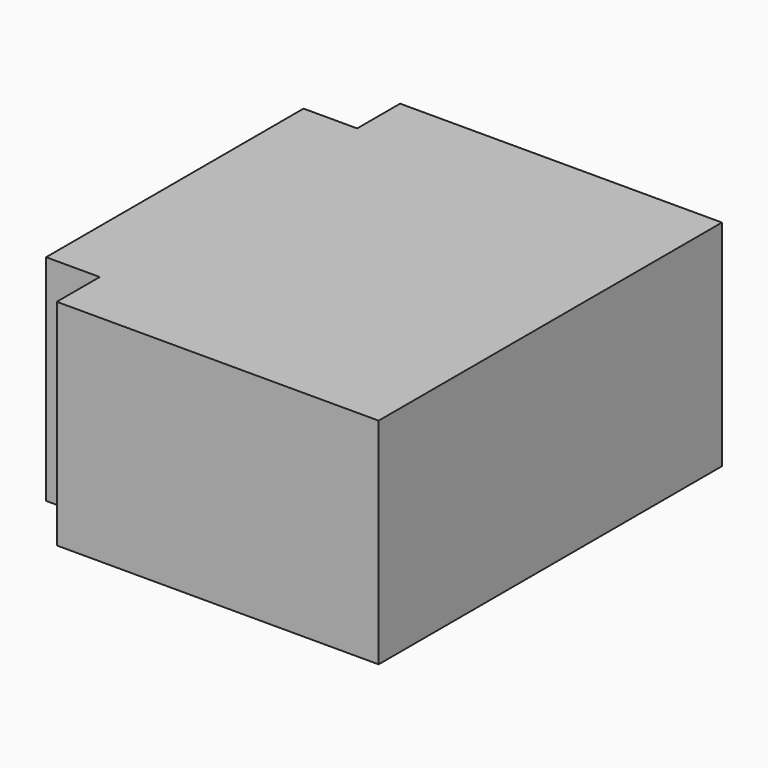
from build123d import *

# Parameters (mm, degrees)
F0_W     = 300
F0_H     = 300
F1_DEPTH = 200
F2_W     = 300
F2_H     = 200
F3_DEPTH = 50
F4_W     = 300
F4_H     = 200
F5_DEPTH = 50
F6_W     = 300
F6_H     = 200
F7_DEPTH = 50


with BuildPart() as f1:
    # F0 (on Top) → F1 (new body)
    with BuildSketch(Plane.XY):
        with Locations((6.017694, -6.54919)):
            Rectangle(F0_W, F0_H)
    extrude(amount=F1_DEPTH)

    # F2 (on face) → F3 (join)
    with BuildSketch(Plane.YZ.offset(156.017694)):
        with Locations((-6.54919, 100)):
            Rectangle(F2_W, F2_H)
    extrude(amount=F3_DEPTH)

    # F4 (on face) → F5 (join)
    with BuildSketch(Plane.XZ.offset(156.54919)):
        with Locations((56.017694, 100)):
            Rectangle(F4_W, F4_H)
    extrude(amount=F5_DEPTH)

    # F6 (on face) → F7 (join)
    with BuildSketch(Plane(origin=(0, 143.45081, 0), x_dir=(-1, 0, 0), z_dir=(0, 1, 0))):
        with Locations((-56.017694, 100)):
            Rectangle(F6_W, F6_H)
    extrude(amount=F7_DEPTH)


solid = f1.part
